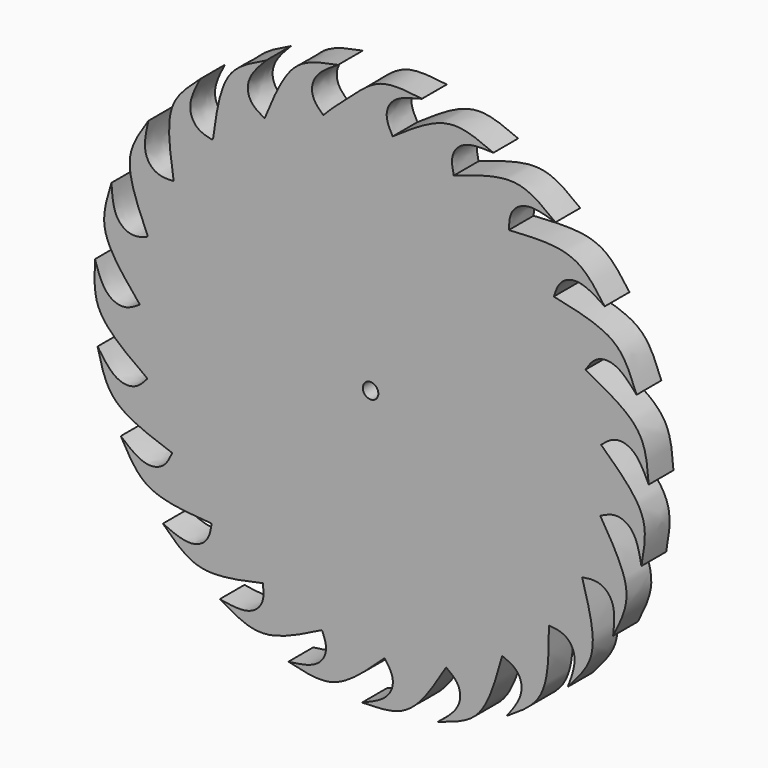
from build123d import *

# Parameters (mm, degrees)
F0_R     = 6.35
F1_DEPTH = 25.4


with BuildPart() as f1:
    # F0 (on Front) → F1 (new body)
    with BuildSketch(Plane.XZ):
        with BuildLine():
            ThreePointArc((-163.6225801813, -97.5597317278), (-175.0925642565, -75.0522747296), (-183.4836319095, -51.225060481))
            add(Edge.make_bspline(
                [(-183.4836319095, -51.225060481), (-186.4013649378, -54.6676276548), (-192.9746509474, -62.0369029262), (-211.8964541257, -61.0342533787), (-223.7225754629, -40.8951972683), (-224.0433505672, -40.8614208456)],
                knots=[0.0192413754, 0.0192413754, 0.0192413754, 0.0192413754, 0.2868671795, 0.6108856409, 0.9559621015, 0.9559621015, 0.9559621015, 0.9559621015], degree=3))
            add(Edge.make_bspline(
                [(-224.0433505672, -40.8614208456), (-221.3232605273, -52.1208946315), (-216.0769381688, -73.8328710516), (-189.7963817887, -88.4688669192), (-172.2672520113, -94.5723260115), (-163.6225801813, -97.5597317278)],
                knots=[0, 0, 0, 0, 0.3494002329, 0.6737432942, 0.9893465356, 0.9893465356, 0.9893465356, 0.9893465356], degree=3))
        make_face()
        with BuildLine():
            ThreePointArc((-183.7491876232, -50.2641626589), (-188.8006813926, -25.3880425734), (-190.4999901843, -0.0611539085))
            add(Edge.make_bspline(
                [(-190.4999901843, -0.0611539085), (-194.1700327404, -2.4628666653), (-202.4897893614, -7.4961147153), (-220.2164157431, -1.2349881629), (-225.8672837684, 21.4256918238), (-226.165427864, 21.5487674616)],
                knots=[0.0265816836, 0.0265816836, 0.0265816836, 0.0265816836, 0.2868671795, 0.6108856409, 0.9559621015, 0.9559621015, 0.9559621015, 0.9559621015], degree=3))
            add(Edge.make_bspline(
                [(-226.165427864, 21.5487674616), (-226.7391107879, 9.9796046715), (-227.8443128328, -12.3298629778), (-206.6263435584, -33.9472692616), (-191.3593305043, -44.8397506409), (-183.7491876232, -50.2641626589)],
                knots=[0, 0, 0, 0, 0.3494002329, 0.6737432942, 0.9962295059, 0.9962295059, 0.9962295059, 0.9962295059], degree=3))
        make_face()
        with BuildLine():
            ThreePointArc((-190.489444992, 2.0053295549), (-188.5982344668, 26.8506230094), (-183.4804246093, 51.2365473583))
            add(Edge.make_bspline(
                [(-183.4804246093, 51.2365473583), (-187.651611858, 49.8256169671), (-196.9830709587, 47.0194195931), (-212.5890981002, 57.5383885307), (-212.3748632821, 80.8920355765), (-212.6326010665, 81.0859653288)],
                knots=[0.0255806186, 0.0255806186, 0.0255806186, 0.0255806186, 0.2868671795, 0.6108856409, 0.9559621015, 0.9559621015, 0.9559621015, 0.9559621015], degree=3))
            add(Edge.make_bspline(
                [(-212.6326010665, 81.0859653288), (-216.0900609016, 70.0306222201), (-222.7562462343, 48.7117153188), (-207.8845710468, 22.8886678412), (-196.1933148864, 8.8087684024), (-190.489444992, 2.0053295549)],
                knots=[0, 0, 0, 0, 0.3494002329, 0.6737432942, 0.9800733185, 0.9800733185, 0.9800733185, 0.9800733185], degree=3))
        make_face()
        with BuildLine():
            ThreePointArc((-183.0731632888, 52.6732084027), (-174.4990076681, 76.4221585853), (-162.8593416318, 98.8285628918))
            add(Edge.make_bspline(
                [(-162.8593416318, 98.8285628918), (-167.2499709313, 98.6552751407), (-176.983111419, 98.6098352145), (-188.9721852853, 113.1029033829), (-182.1650714059, 135.4434926216), (-182.3574770137, 135.7023701919)],
                knots=[0.0261190892, 0.0261190892, 0.0261190892, 0.0261190892, 0.2868671795, 0.6108856409, 0.9559621015, 0.9559621015, 0.9559621015, 0.9559621015], degree=3))
            add(Edge.make_bspline(
                [(-182.3574770137, 135.7023701919), (-188.7990495961, 126.0752843179), (-201.219784816, 107.5102862044), (-194.1727793591, 78.1972978217), (-186.7558644826, 61.1148883404), (-183.0731632888, 52.6732084027)],
                knots=[0, 0, 0, 0, 0.3494002329, 0.6737432942, 0.9915480277, 0.9915480277, 0.9915480277, 0.9915480277], degree=3))
        make_face()
        with BuildLine():
            ThreePointArc((-161.7985650816, 100.5558269695), (-147.2605619065, 120.8493976278), (-130.1937745, 139.0677212061))
            add(Edge.make_bspline(
                [(-130.1937745, 139.0677212061), (-134.5422856487, 140.0260875993), (-144.0477896222, 142.4235497578), (-151.9847759138, 159.5521146078), (-139.7186813892, 179.426259923), (-139.8389058277, 179.7255651163)],
                knots=[0.0227131028, 0.0227131028, 0.0227131028, 0.0227131028, 0.2868671795, 0.6108856409, 0.9559621015, 0.9559621015, 0.9559621015, 0.9559621015], degree=3))
            add(Edge.make_bspline(
                [(-139.8389058277, 179.7255651163), (-148.5174804919, 172.0537347246), (-165.2521217593, 157.2589518602), (-165.8863046297, 127.452392783), (-163.1618683933, 109.3421489056), (-161.7985650816, 100.5558269695)],
                knots=[0, 0, 0, 0, 0.3494002329, 0.6737432942, 0.9805349101, 0.9805349101, 0.9805349101, 0.9805349101], degree=3))
        make_face()
        with BuildLine():
            ThreePointArc((-131.0262554074, -138.2836591717), (-148.3767960512, -119.4762587027), (-163.0502780461, -98.5132317462))
            add(Edge.make_bspline(
                [(-163.0502780462, -98.5132317462), (-164.9940721229, -102.6819004419), (-169.3742463922, -111.6495851948), (-187.9942976702, -115.6769060009), (-204.6976843949, -99.3540508945), (-205.0160595189, -99.4057693123)],
                knots=[0.0141862236, 0.0141862236, 0.0141862236, 0.0141862236, 0.2868671795, 0.6108856409, 0.9559621015, 0.9559621015, 0.9559621015, 0.9559621015], degree=3))
            add(Edge.make_bspline(
                [(-205.0160595189, -99.4057693123), (-199.432337792, -109.554497875), (-188.664028129, -129.1243043471), (-159.1913672996, -136.4051301652), (-140.4157280731, -137.6562677151), (-131.0262554074, -138.2836591717)],
                knots=[0, 0, 0, 0, 0.3494002329, 0.6737432942, 0.9984711449, 0.9984711449, 0.9984711449, 0.9984711449], degree=3))
        make_face()
        with BuildLine():
            ThreePointArc((-89.6972970403, -168.0614319339), (-111.0506138465, -154.7837561384), (-130.4691698999, -138.8093862303))
            add(Edge.make_bspline(
                [(-130.4691698999, -138.8093862303), (-131.150959919, -143.3189112436), (-132.8448733087, -153.1064515216), (-149.5269176437, -162.2111359351), (-170.1631930812, -151.2757409734), (-170.4539632323, -151.4153483999)],
                knots=[0.0164462106, 0.0164462106, 0.0164462106, 0.0164462106, 0.2868671795, 0.6108856409, 0.9559621015, 0.9559621015, 0.9559621015, 0.9559621015], degree=3))
            add(Edge.make_bspline(
                [(-170.4539632323, -151.4153483999), (-162.2291322153, -159.571744326), (-146.3680175013, -175.2993906339), (-116.4708082928, -173.9710926773), (-98.4802664075, -170.0227802504), (-89.6972970403, -168.0614319339)],
                knots=[0, 0, 0, 0, 0.3494002329, 0.6737432942, 0.9842644459, 0.9842644459, 0.9842644459, 0.9842644459], degree=3))
        make_face()
        with BuildLine():
            ThreePointArc((-40.4471388551, -186.1565979449), (-64.9300711852, -179.0930927085), (-88.2512712309, -168.825244339))
            add(Edge.make_bspline(
                [(-88.2512712309, -168.825244339), (-87.7920980064, -173.2823393978), (-87.05750467, -183.0913386938), (-100.8535772847, -196.0252117126), (-123.5731693865, -190.6160656038), (-123.819622008, -190.8241488077)],
                knots=[0.0210998209, 0.0210998209, 0.0210998209, 0.0210998209, 0.2868671795, 0.6108856409, 0.9559621015, 0.9559621015, 0.9559621015, 0.9559621015], degree=3))
            add(Edge.make_bspline(
                [(-123.819622008, -190.8241488077), (-113.8117425083, -196.6565572023), (-94.5124961837, -207.9025747045), (-65.5204419249, -198.9991249318), (-48.7968492755, -190.4340152733), (-40.4471388551, -186.1565979449)],
                knots=[0, 0, 0, 0, 0.3494002329, 0.6737432942, 0.997475299, 0.997475299, 0.997475299, 0.997475299], degree=3))
        make_face()
        with BuildLine():
            add(Edge.make_bspline(
                [(-67.4315221578, -217.6554181009), (-56.1831151446, -220.4209161438), (-34.4919765534, -225.7527380624), (-9.4509665264, -209.183517415), (4.003124662, -196.4698186065), (10.5954567849, -190.2051163758)],
                knots=[0, 0, 0, 0, 0.3494002329, 0.6737432942, 0.9875470221, 0.9875470221, 0.9875470221, 0.9875470221], degree=3))
            ThreePointArc((10.5954567849, -190.2051163758), (-14.6297039538, -189.9374153826), (-39.5983203912, -186.3390002715))
            add(Edge.make_bspline(
                [(-39.5983203912, -186.3390002715), (-37.8728474348, -190.5379552564), (-34.3196015621, -199.7863249663), (-43.9319283773, -216.1523020967), (-67.2539423408, -217.3861544329), (-67.4315221578, -217.6554181009)],
                knots=[0.0176745802, 0.0176745802, 0.0176745802, 0.0176745802, 0.2868671795, 0.6108856409, 0.9559621015, 0.9559621015, 0.9559621015, 0.9559621015], degree=3))
        make_face()
        with BuildLine():
            add(Edge.make_bspline(
                [(-7.0312950585, -227.538896911), (4.5165199949, -227.352656335), (26.8802813253, -226.9295363989), (47.070104186, -204.6517296096), (56.7264428121, -188.1556263119), (61.5838532347, -180.2711264201)],
                knots=[0, 0, 0, 0, 0.3483728205, 0.6717621501, 0.990862399, 0.990862399, 0.990862399, 0.990862399], degree=3))
            ThreePointArc((61.5838532347, -180.2711264201), (37.0646727834, -186.8594659937), (11.8871404139, -190.1287613508))
            add(Edge.make_bspline(
                [(11.8871404139, -190.1287613508), (14.6358515114, -193.7650625463), (20.4519014964, -201.8136197185), (15.3129367031, -220.1075058868), (-6.9280506925, -227.2333185819), (-7.0312950585, -227.538896911)],
                knots=[0.0165901344, 0.0165901344, 0.0165901344, 0.0165901344, 0.2868671795, 0.6108856409, 0.9559621015, 0.9559621015, 0.9559621015, 0.9559621015], degree=3))
        make_face()
        with BuildLine():
            add(Edge.make_bspline(
                [(55.1050925431, -221.3256729154), (66.1617860868, -217.8725341053), (87.482663686, -211.21265447), (100.3990549185, -183.950939443), (105.3457368432, -165.9790261498), (107.7805651271, -157.0783237143)],
                knots=[0, 0, 0, 0, 0.3494002329, 0.6737432942, 0.9921602227, 0.9921602227, 0.9921602227, 0.9921602227], degree=3))
            ThreePointArc((107.7805651271, -157.0783237143), (85.9021048735, -170.0325803436), (62.4933720387, -179.9578518743))
            add(Edge.make_bspline(
                [(62.4933720387, -179.9578518743), (66.2217266211, -182.7126122672), (74.1941729706, -188.789476757), (74.4372881908, -207.8811023753), (55.1177450172, -221.0033726994), (55.1050925431, -221.3256729154)],
                knots=[0.012081923, 0.012081923, 0.012081923, 0.012081923, 0.2868671795, 0.6108856409, 0.9559621015, 0.9559621015, 0.9559621015, 0.9559621015], degree=3))
        make_face()
        with BuildLine():
            add(Edge.make_bspline(
                [(111.7529050636, -198.547598641), (121.560928657, -192.4492881167), (140.5232587158, -180.585608668), (146.4306298804, -150.8525382995), (146.1746567508, -131.4952038142), (146.3006621698, -122.0096973551)],
                knots=[0, 0, 0, 0, 0.3483728205, 0.6717621501, 0.9990623032, 0.9990623032, 0.9990623032, 0.9990623032], degree=3))
            ThreePointArc((146.3006621698, -122.0096973551), (128.5449109337, -140.593228404), (108.4491755426, -156.6174521697))
            add(Edge.make_bspline(
                [(108.4491755426, -156.6174521697), (112.7762539084, -158.3588766675), (122.0610210198, -162.2305227369), (127.0944094413, -180.6834303425), (111.6843041096, -198.2324297602), (111.7529050636, -198.547598641)],
                knots=[0.0104062438, 0.0104062438, 0.0104062438, 0.0104062438, 0.2868671795, 0.6108856409, 0.9559621015, 0.9559621015, 0.9559621015, 0.9559621015], degree=3))
        make_face()
        with BuildLine():
            add(Edge.make_bspline(
                [(161.8479735382, -161.2646409912), (169.5468164993, -152.6260026071), (184.3890430292, -135.9297237283), (181.5471149782, -105.723228769), (176.1524970295, -87.5048603833), (173.6076133474, -78.4260580919)],
                knots=[0, 0, 0, 0, 0.3490401861, 0.6730490213, 0.9983795869, 0.9983795869, 0.9983795869, 0.9983795869], degree=3))
            ThreePointArc((173.6076133474, -78.4260580919), (161.4578632934, -101.1019702119), (146.3636590077, -121.9341187768))
            add(Edge.make_bspline(
                [(146.3636590077, -121.9341187768), (151.1624732344, -122.3946362183), (161.372046387, -123.3568897557), (171.5139128474, -139.7923359719), (161.6930784856, -160.981718675), (161.8479735382, -161.2646409912)],
                knots=[0.0012282878, 0.0012282878, 0.0012282878, 0.0012282878, 0.2868671795, 0.6108856409, 0.9559621015, 0.9559621015, 0.9559621015, 0.9559621015], degree=3))
        make_face()
        with BuildLine():
            add(Edge.make_bspline(
                [(192.1198367417, 123.392785015), (185.4091808032, 132.7924560163), (172.3617734082, 150.9606152954), (142.3015137699, 154.9636260263), (122.9888098953, 153.4719711908), (113.5042103368, 152.9936084803)],
                knots=[0, 0, 0, 0, 0.3483728205, 0.6717621501, 0.9994377412, 0.9994377412, 0.9994377412, 0.9994377412], degree=3))
            ThreePointArc((113.5042103368, 152.9936084803), (133.1458356753, 136.2440326852), (150.3427099529, 116.9928184292))
            add(Edge.make_bspline(
                [(150.3427099529, 116.9928184292), (151.8514053664, 121.5681478778), (155.0478985763, 131.3077986566), (173.314756277, 137.5652658947), (191.8096774382, 123.3042484646), (192.1198367417, 123.392785015)],
                knots=[0.0014169093, 0.0014169093, 0.0014169093, 0.0014169093, 0.2868671795, 0.6108856409, 0.9559621015, 0.9559621015, 0.9559621015, 0.9559621015], degree=3))
        make_face()
        with BuildLine():
            add(Edge.make_bspline(
                [(151.7217470653, 171.0113650766), (142.6008686554, 178.151688374), (125.0119525338, 191.9199071413), (95.0912213981, 187.0476685992), (77.3684689413, 180.8449165696), (68.526433765, 177.7480741821)],
                knots=[0, 0, 0, 0, 0.3494002329, 0.6737432942, 0.9970296223, 0.9970296223, 0.9970296223, 0.9970296223], degree=3))
            ThreePointArc((68.526433765, 177.7480741821), (91.827092284, 166.9072650386), (113.456595698, 153.0289217522))
            add(Edge.make_bspline(
                [(113.456595698, 153.0289217522), (113.6108093407, 157.8555053476), (113.9133343524, 168.1162069663), (129.6773657177, 179.2899831117), (151.4492654077, 170.8387636265), (151.7217470653, 171.0113650766)],
                knots=[0.0007463976, 0.0007463976, 0.0007463976, 0.0007463976, 0.2868671795, 0.6108856409, 0.9559621015, 0.9559621015, 0.9559621015, 0.9559621015], degree=3))
        make_face()
        with BuildLine():
            add(Edge.make_bspline(
                [(100.8051797142, 204.7058527591), (90.2160136862, 209.3163061956), (69.6829471518, 218.1881735309), (41.8279923166, 206.1557247607), (26.0202387233, 194.9320705957), (18.1186010611, 189.6364055122)],
                knots=[0, 0, 0, 0, 0.3483728205, 0.6717621501, 1, 1, 1, 1], degree=3))
            ThreePointArc((18.1186010611, 189.6364055122), (43.5782788518, 185.4486009985), (68.2385272103, 177.8588018743))
            add(Edge.make_bspline(
                [(68.2385272103, 177.8588018743), (67.1891230496, 182.5162652982), (64.9739386709, 192.4688868264), (77.3889557934, 207.1899467315), (100.5847073688, 204.4704181413), (100.8051797142, 204.7058527591)],
                knots=[0.0039699809, 0.0039699809, 0.0039699809, 0.0039699809, 0.2868671795, 0.6108856409, 0.9559621015, 0.9559621015, 0.9559621015, 0.9559621015], degree=3))
        make_face()
        with BuildLine():
            ThreePointArc((-38.7034099538, 186.5269311868), (-10.4091688877, 190.2154021184), (18.1186010611, 189.6364055122))
            add(Edge.make_bspline(
                [(18.1186010611, 189.6364055122), (15.833101044, 193.7397571754), (10.7461323231, 202.8630162994), (18.3185338114, 220.7225946184), (42.3280816508, 224.2081970559), (42.1896088468, 224.6730889656)],
                knots=[0, 0, 0, 0, 0.2782875991, 0.5926153651, 0.9311513499, 0.9311513499, 0.9311513499, 0.9311513499], degree=3))
            add(Edge.make_bspline(
                [(42.1896088468, 224.6730889656), (30.9073384329, 226.0799202541), (7.3044151354, 229.2572457935), (-15.5491908561, 207.489484337), (-32.3571646843, 193.5398288631), (-38.7034099538, 186.5269311868)],
                knots=[0, 0, 0, 0, 0.3429531765, 0.6682615601, 1, 1, 1, 1], degree=3))
        make_face()
        with BuildLine():
            ThreePointArc((-86.3940206792, 169.7831652163), (-63.2239913835, 179.7024677447), (-38.9472574882, 186.4761677377))
            add(Edge.make_bspline(
                [(-38.9472574882, 186.4761677377), (-42.3295516426, 189.6603375313), (-49.5392284475, 196.6421891729), (-47.5137073376, 215.639073837), (-26.7734002474, 226.3758512261), (-26.7225880077, 226.6943722311)],
                knots=[0.0115188313, 0.0115188313, 0.0115188313, 0.0115188313, 0.2868671795, 0.6108856409, 0.9559621015, 0.9559621015, 0.9559621015, 0.9559621015], degree=3))
            add(Edge.make_bspline(
                [(-26.7225880077, 226.6943722311), (-38.11094816, 224.5777965051), (-60.0715181447, 220.4952502037), (-76.0051525731, 195.1606317243), (-83.0043099835, 178.1216609461), (-86.3940206792, 169.7831652163)],
                knots=[0, 0, 0, 0, 0.3494002329, 0.6737432942, 0.9843282434, 0.9843282434, 0.9843282434, 0.9843282434], degree=3))
        make_face()
        with BuildLine():
            ThreePointArc((-129.2688194479, 139.9279182956), (-109.5288789899, 155.8642828464), (-87.8463672609, 169.0362853327))
            add(Edge.make_bspline(
                [(-87.8463672609, 169.0362853327), (-91.7706307169, 171.1963227223), (-100.250463678, 176.1782661178), (-103.026405515, 194.8827224366), (-85.6425637288, 210.478900547), (-85.6732770212, 210.7999834148)],
                knots=[0.0211706037, 0.0211706037, 0.0211706037, 0.0211706037, 0.2868671795, 0.6108856409, 0.9559621015, 0.9559621015, 0.9559621015, 0.9559621015], degree=3))
            add(Edge.make_bspline(
                [(-85.6732770212, 210.7999834148), (-96.1665644268, 205.8943173862), (-116.4008636891, 196.4335060192), (-125.5566661709, 167.6389833101), (-128.0444997785, 149.1204846963), (-129.2688194479, 139.9279182956)],
                knots=[0, 0, 0, 0, 0.3494002329, 0.6737432942, 0.9937501549, 0.9937501549, 0.9937501549, 0.9937501549], degree=3))
        make_face()
        with BuildLine():
            add(Edge.make_bspline(
                [(218.2822770436, 68.0628898), (214.1713214956, 78.8922334663), (206.2429606552, 99.7746402419), (178.0634584972, 111.1073296945), (159.6334184376, 114.9698123594), (150.4104189217, 116.9057564014)],
                knots=[0, 0, 0, 0, 0.3494002329, 0.6737432942, 0.9989401439, 0.9989401439, 0.9989401439, 0.9989401439], degree=3))
            ThreePointArc((150.4104189217, 116.9057564014), (176.2173095749, 72.372023643), (189.1600418419, 22.5550120902))
            add(Edge.make_bspline(
                [(189.1600418419, 22.5550120902), (192.8162506894, 25.688043654), (200.5898717199, 32.3648128941), (219.4561724571, 28.2694033121), (227.9048858375, 6.4965309909), (228.2161132697, 6.4118256208)],
                knots=[0.0015760458, 0.0015760458, 0.0015760458, 0.0015760458, 0.2868671795, 0.6108856409, 0.9559621015, 0.9559621015, 0.9559621015, 0.9559621015], degree=3))
            add(Edge.make_bspline(
                [(228.2161132697, 6.4118256208), (227.3366626143, 17.9276097715), (225.5711689863, 40.2255891322), (201.9047490269, 59.2145042823), (184.5894886719, 67.9344380734), (176.2123317246, 72.4403439647)],
                knots=[0, 0, 0, 0, 0.3483728205, 0.6717621501, 1, 1, 1, 1], degree=3))
            add(Edge.make_bspline(
                [(176.2123317246, 72.4403439647), (178.8484537963, 76.5015151819), (184.4145991049, 85.1456479584), (203.7009102549, 86.5527250655), (217.9597987374, 68.0561625161), (218.2822770436, 68.0628898)],
                knots=[0, 0, 0, 0, 0.2868671795, 0.6108856409, 0.9559621015, 0.9559621015, 0.9559621015, 0.9559621015], degree=3))
        make_face()
        with BuildLine():
            add(Edge.make_bspline(
                [(222.2583153828, -54.3526374752), (224.3017226586, -42.9509215312), (228.2410855461, -20.9642155843), (209.9034761017, 3.2438649708), (196.0863854083, 16.0325377258), (189.1744792463, 22.4335998427)],
                knots=[0, 0, 0, 0, 0.3494002329, 0.6737432942, 0.9988236729, 0.9988236729, 0.9988236729, 0.9988236729], degree=3))
            ThreePointArc((189.1744792463, 22.4335998427), (190.1683310865, 11.2363629254), (190.5, 0))
            ThreePointArc((190.5, 0), (186.2467838043, -40.0298079256), (173.6770548813, -78.272157296))
            add(Edge.make_bspline(
                [(173.6770548813, -78.272157296), (178.4434531898, -77.46358616), (188.7663070538, -75.9223686332), (202.7802934655, -89.0597276079), (198.8486399032, -112.1031299766), (199.0732095158, -112.3352700691)],
                knots=[0.0021523649, 0.0021523649, 0.0021523649, 0.0021523649, 0.2885289857, 0.6117923902, 0.9560647226, 0.9560647226, 0.9560647226, 0.9560647226], degree=3))
            add(Edge.make_bspline(
                [(199.0732095158, -112.3352700691), (204.2410746945, -102.0066744456), (214.1938954971, -81.9752439078), (203.6620147101, -53.5189999644), (193.296174152, -37.1359344391), (188.4288479236, -28.9634757022)],
                knots=[0, 0, 0, 0, 0.3483728205, 0.6717621501, 1, 1, 1, 1], degree=3))
            add(Edge.make_bspline(
                [(188.4288479236, -28.9634757022), (192.7781756837, -26.8361301103), (201.997226982, -22.2850754837), (219.26142879, -30.9965047405), (221.9782874211, -54.1925691928), (222.2583153828, -54.3526374752)],
                knots=[0, 0, 0, 0, 0.2868671795, 0.6108856409, 0.9559621015, 0.9559621015, 0.9559621015, 0.9559621015], degree=3))
        make_face()
        with BuildLine():
            ThreePointArc((68.2385272103, 177.8588018743), (43.5782788518, 185.4486009985), (18.1186010611, 189.6364055122))
            ThreePointArc((18.1186010611, 189.6364055122), (-10.4091688877, 190.2154021184), (-38.7034099538, 186.5269311868))
            ThreePointArc((-38.7034099538, 186.5269311868), (-38.8253420176, 186.5015893155), (-38.9472574882, 186.4761677377))
            ThreePointArc((-38.9472574882, 186.4761677377), (-63.2239913835, 179.7024677447), (-86.3940206792, 169.7831652163))
            add(Edge.make_bspline(
                [(-86.3940206792, 169.7831652163), (-86.5650615526, 169.3624143854), (-86.736015766, 168.9416543448), (-86.9069797361, 168.520906063)],
                knots=[0.9843282434, 0.9843282434, 0.9843282434, 0.9843282434, 1, 1, 1, 1], degree=3))
            add(Edge.make_bspline(
                [(-86.9069797361, 168.520906063), (-87.220341402, 168.6926003835), (-87.5336834174, 168.8641743619), (-87.8463672609, 169.0362853327)],
                knots=[0, 0, 0, 0, 0.0211706037, 0.0211706037, 0.0211706037, 0.0211706037], degree=3))
            ThreePointArc((-87.8463672609, 169.0362853327), (-109.5288789899, 155.8642828464), (-129.2688194479, 139.9279182956))
            ThreePointArc((-129.2688194479, 139.9279182956), (-129.7320099255, 139.4985863753), (-130.1937745, 139.0677212061))
            ThreePointArc((-130.1937745, 139.0677212061), (-147.2605619065, 120.8493976278), (-161.7985650816, 100.5558269695))
            add(Edge.make_bspline(
                [(-161.7985650816, 100.5558269695), (-161.7120672108, 99.9983588456), (-161.6254124738, 99.4409590875), (-161.5387799744, 98.8835671465)],
                knots=[0.9805349101, 0.9805349101, 0.9805349101, 0.9805349101, 1, 1, 1, 1], degree=3))
            add(Edge.make_bspline(
                [(-161.5387799744, 98.8835671465), (-161.9792167139, 98.8648147596), (-162.4195330858, 98.8459210946), (-162.8593416318, 98.8285628918)],
                knots=[0, 0, 0, 0, 0.0261190892, 0.0261190892, 0.0261190892, 0.0261190892], degree=3))
            ThreePointArc((-162.8593416318, 98.8285628918), (-174.4990076681, 76.4221585853), (-183.0731632888, 52.6732084027))
            ThreePointArc((-183.0731632888, 52.6732084027), (-183.278201647, 51.9552769315), (-183.4804246093, 51.2365473583))
            ThreePointArc((-183.4804246093, 51.2365473583), (-188.5982344668, 26.8506230094), (-190.489444992, 2.0053295549))
            add(Edge.make_bspline(
                [(-190.489444992, 2.0053295549), (-190.1184098683, 1.5627677817), (-189.7472681017, 1.1203559657), (-189.3761505168, 0.6779391028)],
                knots=[0.9800733185, 0.9800733185, 0.9800733185, 0.9800733185, 1, 1, 1, 1], degree=3))
            add(Edge.make_bspline(
                [(-189.3761505168, 0.6779391028), (-189.7507596947, 0.4310608723), (-190.1251867023, 0.1841212593), (-190.4999901843, -0.0611539085)],
                knots=[0, 0, 0, 0, 0.0265816836, 0.0265816836, 0.0265816836, 0.0265816836], degree=3))
            ThreePointArc((-190.4999901843, -0.0611539085), (-188.8006813926, -25.3880425734), (-183.7491876232, -50.2641626589))
            ThreePointArc((-183.7491876232, -50.2641626589), (-183.6170383343, -50.7447852823), (-183.4836319095, -51.225060481))
            ThreePointArc((-183.4836319095, -51.225060481), (-175.0925642565, -75.0522747296), (-163.6225801813, -97.5597317278))
            add(Edge.make_bspline(
                [(-163.6225801813, -97.5597317278), (-163.3307716974, -97.6605742294), (-163.038963435, -97.7613909268), (-162.7471603587, -97.8622124159)],
                knots=[0.9893465356, 0.9893465356, 0.9893465356, 0.9893465356, 1, 1, 1, 1], degree=3))
            add(Edge.make_bspline(
                [(-162.7471603587, -97.8622124159), (-162.8481829405, -98.0792907859), (-162.9491521817, -98.2963568052), (-163.0502780462, -98.5132317462)],
                knots=[0, 0, 0, 0, 0.0141862236, 0.0141862236, 0.0141862236, 0.0141862236], degree=3))
            ThreePointArc((-163.0502780461, -98.5132317462), (-148.3767960512, -119.4762587027), (-131.0262554074, -138.2836591717))
            ThreePointArc((-131.0262554074, -138.2836591717), (-130.7479768922, -138.5468027008), (-130.4691698999, -138.8093862303))
            ThreePointArc((-130.4691698999, -138.8093862303), (-111.0506138465, -154.7837561384), (-89.6972970403, -168.0614319339))
            add(Edge.make_bspline(
                [(-89.6972970403, -168.0614319339), (-89.2522230459, -167.962041273), (-88.8071913235, -167.862573132), (-88.3621637449, -167.7631198274)],
                knots=[0.9842644459, 0.9842644459, 0.9842644459, 0.9842644459, 1, 1, 1, 1], degree=3))
            add(Edge.make_bspline(
                [(-88.3621637449, -167.7631198274), (-88.3249884196, -168.1172951375), (-88.287725944, -168.4713863326), (-88.2512712309, -168.825244339)],
                knots=[0, 0, 0, 0, 0.0210998209, 0.0210998209, 0.0210998209, 0.0210998209], degree=3))
            ThreePointArc((-88.2512712309, -168.825244339), (-64.9300711852, -179.0930927085), (-40.4471388551, -186.1565979449))
            ThreePointArc((-40.4471388551, -186.1565979449), (-40.0228335346, -186.2482826655), (-39.5983203912, -186.3390002715))
            ThreePointArc((-39.5983203912, -186.3390002715), (-14.6297039538, -189.9374153826), (10.5954567849, -190.2051163758))
            add(Edge.make_bspline(
                [(10.5954567849, -190.2051163758), (10.8570666994, -189.9565081162), (11.1186394282, -189.7078796367), (11.3802147097, -189.459260461)],
                knots=[0.9875470221, 0.9875470221, 0.9875470221, 0.9875470221, 1, 1, 1, 1], degree=3))
            add(Edge.make_bspline(
                [(11.3802147097, -189.459260461), (11.5493073255, -189.6824454491), (11.718419143, -189.9055580612), (11.8871404139, -190.1287613508)],
                knots=[0, 0, 0, 0, 0.0165901344, 0.0165901344, 0.0165901344, 0.0165901344], degree=3))
            ThreePointArc((11.8871404139, -190.1287613508), (37.0646727834, -186.8594659937), (61.5838532347, -180.2711264201))
            add(Edge.make_bspline(
                [(61.5838532347, -180.2711264201), (61.7229476997, -180.0453496793), (61.8620925717, -179.8198258983), (62.0013091904, -179.5945741992)],
                knots=[0.990862399, 0.990862399, 0.990862399, 0.990862399, 1, 1, 1, 1], degree=3))
            add(Edge.make_bspline(
                [(62.0013091904, -179.5945741992), (62.1653758903, -179.7156714073), (62.3294415077, -179.8367289167), (62.4933720387, -179.9578518743)],
                knots=[0, 0, 0, 0, 0.012081923, 0.012081923, 0.012081923, 0.012081923], degree=3))
            ThreePointArc((62.4933720387, -179.9578518743), (85.9021048735, -170.0325803436), (107.7805651271, -157.0783237143))
            add(Edge.make_bspline(
                [(107.7805651271, -157.0783237143), (107.8405132949, -156.8591785668), (107.90045194, -156.6400348774), (107.9603933587, -156.42089382)],
                knots=[0.9921602227, 0.9921602227, 0.9921602227, 0.9921602227, 1, 1, 1, 1], degree=3))
            add(Edge.make_bspline(
                [(107.9603933587, -156.42089382), (108.123350929, -156.4864127389), (108.2863003344, -156.5519033505), (108.4491755426, -156.6174521697)],
                knots=[0, 0, 0, 0, 0.0104062438, 0.0104062438, 0.0104062438, 0.0104062438], degree=3))
            ThreePointArc((108.4491755426, -156.6174521697), (128.5449109337, -140.593228404), (146.3006621698, -122.0096973551))
            add(Edge.make_bspline(
                [(146.3006621698, -122.0096973551), (146.3010231683, -121.9825219057), (146.3013862579, -121.9553485192), (146.301751469, -121.9281772014)],
                knots=[0.9990623032, 0.9990623032, 0.9990623032, 0.9990623032, 1, 1, 1, 1], degree=3))
            add(Edge.make_bspline(
                [(146.301751469, -121.9281772014), (146.3223875571, -121.930158017), (146.3430234247, -121.9321384864), (146.3636590077, -121.9341187768)],
                knots=[0, 0, 0, 0, 0.0012282878, 0.0012282878, 0.0012282878, 0.0012282878], degree=3))
            ThreePointArc((146.3636590077, -121.9341187768), (161.4578632934, -101.1019702119), (173.6076133474, -78.4260580919))
            add(Edge.make_bspline(
                [(173.6076133474, -78.4260580919), (173.5949377388, -78.3808382081), (173.5822660478, -78.335619538), (173.569598404, -78.2904020434)],
                knots=[0.9983795869, 0.9983795869, 0.9983795869, 0.9983795869, 1, 1, 1, 1], degree=3))
            add(Edge.make_bspline(
                [(173.569598404, -78.2904020434), (173.6054124476, -78.2843162794), (173.6412313278, -78.2782343985), (173.6770548813, -78.272157296)],
                knots=[0, 0, 0, 0, 0.0021523649, 0.0021523649, 0.0021523649, 0.0021523649], degree=3))
            ThreePointArc((173.6770548813, -78.272157296), (186.2467838043, -40.0298079256), (190.5, 0))
            ThreePointArc((190.5, 0), (190.1683310865, 11.2363629254), (189.1744792463, 22.4335998427))
            add(Edge.make_bspline(
                [(189.1744792463, 22.4335998427), (189.1494680079, 22.4567625544), (189.1244568283, 22.4799252592), (189.0994457301, 22.503087992)],
                knots=[0.9988236729, 0.9988236729, 0.9988236729, 0.9988236729, 1, 1, 1, 1], degree=3))
            add(Edge.make_bspline(
                [(189.0994457301, 22.503087992), (189.1196450429, 22.5203960051), (189.1398436932, 22.5377041519), (189.1600418419, 22.5550120902)],
                knots=[0, 0, 0, 0, 0.0015760458, 0.0015760458, 0.0015760458, 0.0015760458], degree=3))
            ThreePointArc((189.1600418419, 22.5550120902), (176.2173095749, 72.372023643), (150.4104189217, 116.9057564014))
            add(Edge.make_bspline(
                [(150.4104189217, 116.9057564014), (150.3803600437, 116.9120658787), (150.3503012095, 116.918375379), (150.3202424203, 116.9246849327)],
                knots=[0.9989401439, 0.9989401439, 0.9989401439, 0.9989401439, 1, 1, 1, 1], degree=3))
            add(Edge.make_bspline(
                [(150.3202424203, 116.9246849327), (150.3277320358, 116.9473963335), (150.3352211371, 116.9701075498), (150.3427099529, 116.9928184292)],
                knots=[0, 0, 0, 0, 0.0014169093, 0.0014169093, 0.0014169093, 0.0014169093], degree=3))
            ThreePointArc((150.3427099529, 116.9928184292), (133.1458356753, 136.2440326852), (113.5042103368, 152.9936084803))
            add(Edge.make_bspline(
                [(113.5042103368, 152.9936084803), (113.4879357065, 152.9927876574), (113.4716617691, 152.9919676365), (113.4553885254, 152.9911484241)],
                knots=[0.9994377412, 0.9994377412, 0.9994377412, 0.9994377412, 1, 1, 1, 1], degree=3))
            add(Edge.make_bspline(
                [(113.4553885254, 152.9911484241), (113.4557910259, 153.0037396269), (113.4561934039, 153.0163307402), (113.456595698, 153.0289217522)],
                knots=[0, 0, 0, 0, 0.0007463976, 0.0007463976, 0.0007463976, 0.0007463976], degree=3))
            ThreePointArc((113.456595698, 153.0289217522), (91.827092284, 166.9072650386), (68.526433765, 177.7480741821))
            add(Edge.make_bspline(
                [(68.526433765, 177.7480741821), (68.44519252, 177.7196201751), (68.3639516871, 177.6911661236), (68.2827109392, 177.6627126144)],
                knots=[0.9970296223, 0.9970296223, 0.9970296223, 0.9970296223, 1, 1, 1, 1], degree=3))
            add(Edge.make_bspline(
                [(68.2827109392, 177.6627126144), (68.267983734, 177.7280791154), (68.2532538124, 177.7934422988), (68.2385272103, 177.8588018743)],
                knots=[0, 0, 0, 0, 0.0039699809, 0.0039699809, 0.0039699809, 0.0039699809], degree=3))
        make_face()
        Circle(F0_R, mode=Mode.SUBTRACT)
    extrude(amount=F1_DEPTH)


solid = f1.part
